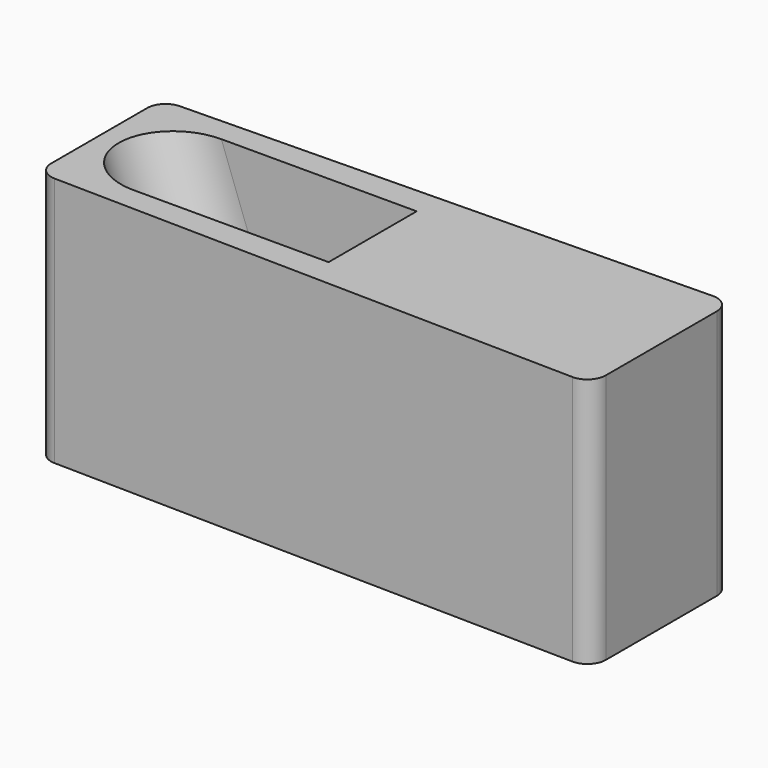
from build123d import *

# Parameters (mm, degrees)
F1_DEPTH      = 34.671
F2_R          = 2.54
F5_DEPTH      = 59.1859747542
F7_DEPTH      = 6.35
F7_DEPTH_BACK = 6.35


with BuildPart() as f1:
    # F0 (on Top) → F1 (new body)
    with BuildSketch(Plane.XY):
        Polygon((38.89375, 12.192), (-38.89375, 10.795), (-38.89375, -10.795), (38.89375, -12.192), align=None)
    extrude(amount=F1_DEPTH)

    # F2
    f2_edges = [f1.edges().sort_by_distance(p)[0] for p in [
        (-38.89375, -10.795, 17.3355),
        (-38.89375, 10.795, 17.3355),
        (38.89375, -12.192, 17.3355),
        (38.89375, 12.192, 17.3355),
    ]]
    fillet(f2_edges, radius=F2_R)

    # F4 (on face) → F5 (cut, through all)
    with BuildSketch(Plane(origin=(-15.6927490779, 0, 43.1154737408), x_dir=(0.9396926208, 0, 0.3420201433), z_dir=(0.3420201433, 0, -0.9396926208))):
        with BuildLine():
            Line((10.8700105196, 7.62), (-14.5299894804, 7.62))
            ThreePointArc((-14.5299894804, 7.62), (-22.1499894804, 0), (-14.5299894804, -7.62))
            Line((-14.5299894804, -7.62), (10.8700105196, -7.62))
            Line((10.8700105196, -7.62), (10.8700105196, 7.62))
        make_face()
    extrude(amount=F5_DEPTH, mode=Mode.SUBTRACT)

    # F6 (on Front) → F7 (cut, two sides)
    with BuildSketch(Plane.XZ) as f7_sk:
        Polygon((-36.3993589719, 0), (-26.2745380078, 0), (-33.670413168, 20.32), (-38.89375, 20.32), (-38.89375, 0), align=None)
    extrude(amount=-F7_DEPTH, mode=Mode.SUBTRACT)
    extrude(f7_sk.sketch, amount=F7_DEPTH_BACK, mode=Mode.SUBTRACT)


solid = f1.part
